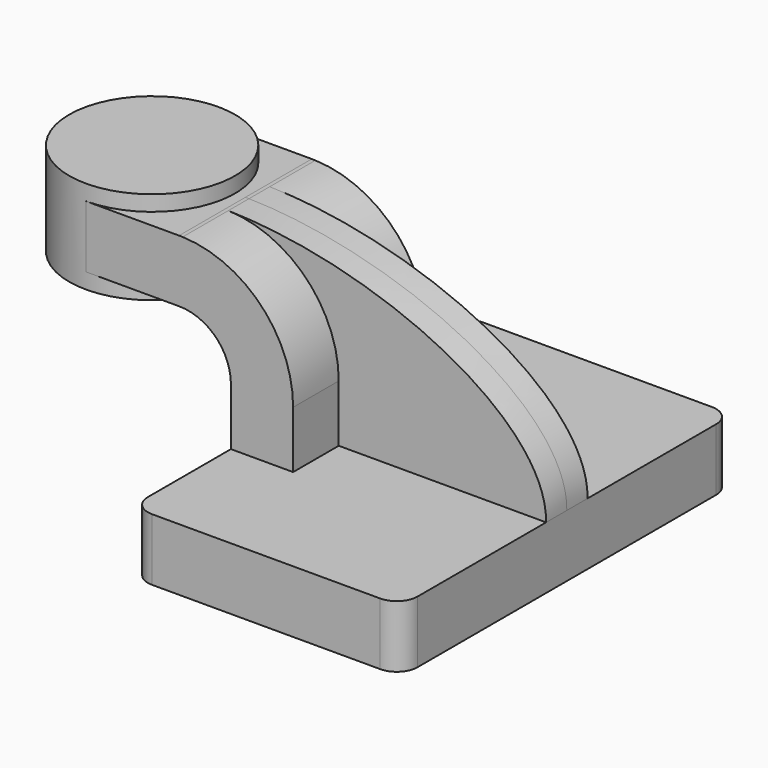
from build123d import *

# Parameters (mm, degrees)
F1_DEPTH = 63.5
F0_W     = 25.4
F0_H     = 19.05
F2_DEPTH = 25.4
F3_DEPTH = 7.9375
F5_R     = 6.35


with BuildPart() as f1:
    # F0 (on Front) → F1 (new body, symmetric)
    with BuildSketch(Plane.XZ):
        Polygon((-41.275, 9.525), (-41.275, -9.525), (41.275, -9.525), (41.275, 9.525), (-22.225, 9.525), align=None)
    extrude(amount=F1_DEPTH, both=True)

    # F0 (on Front) → F2 (join, symmetric)
    with BuildSketch(Plane.XZ):
        with BuildLine():
            Line((-41.275, 27.0002), (-41.275, 9.525))
            Line((-41.275, 9.525), (-22.225, 9.525))
            Line((-22.225, 9.525), (-22.225, 27.0002))
            ThreePointArc((-22.225, 27.0002), (-32.0678303649, 51.3032942762), (-56.0483581329, 61.9078210905))
            add(Edge.make_bspline(
                [(-56.0483581329, 61.9078210905), (-56.4159795872, 61.9151244861), (-56.7832036412, 61.9209209845), (-57.15, 61.9252)],
                knots=[110.6161711684, 110.6161711684, 110.6161711684, 110.6161711684, 111.5045361635, 111.5045361635, 111.5045361635, 111.5045361635], degree=3))
            Line((-57.15, 61.9252), (-60.325, 61.9252))
            Line((-60.325, 61.9252), (-60.325, 42.8752))
            Line((-60.325, 42.8752), (-57.15, 42.8752))
            ThreePointArc((-57.15, 42.8752), (-45.9246798487, 38.2255201513), (-41.275, 27.0002))
        make_face()
        with Locations((-73.025, 52.4002)):
            Rectangle(F0_W, F0_H)
    extrude(amount=F2_DEPTH, both=True)

    # F0 (on Front) → F3 (join, symmetric)
    with BuildSketch(Plane.XZ):
        with BuildLine():
            Line((-22.225, 9.525), (41.275, 9.525))
            add(Edge.make_bspline(
                [(41.275, 9.525), (41.6630189885, 36.7255268009), (-10.2733918335, 60.9984272402), (-56.0483581329, 61.9078210905)],
                knots=[0, 0, 0, 0, 110.6161711684, 110.6161711684, 110.6161711684, 110.6161711684], degree=3))
            ThreePointArc((-56.0483581329, 61.9078210905), (-32.0678303649, 51.3032942762), (-22.225, 27.0002))
            Line((-22.225, 27.0002), (-22.225, 9.525))
        make_face()
    extrude(amount=F3_DEPTH, both=True)

    # F5
    f5_edges = [f1.edges().sort_by_distance(p)[0] for p in [
        (-41.275, 63.5, 0),
        (41.275, 63.5, 0),
        (-41.275, -63.5, 0),
        (41.275, -63.5, 0),
    ]]
    fillet(f5_edges, radius=F5_R)


with BuildPart() as f4:
    # F0 (on Front) → F4 (revolve)
    with BuildSketch(Plane.XZ):
        Polygon((-85.725, 38.1), (-85.725, 42.8752), (-85.725, 61.9252), (-85.725, 66.675), (-111.125, 66.675), (-111.125, 38.1), align=None)
    revolve(axis=Axis((-85.725, 0, 52.3875), (0, 0, 1)))


solid = Compound([f1.part, f4.part])
